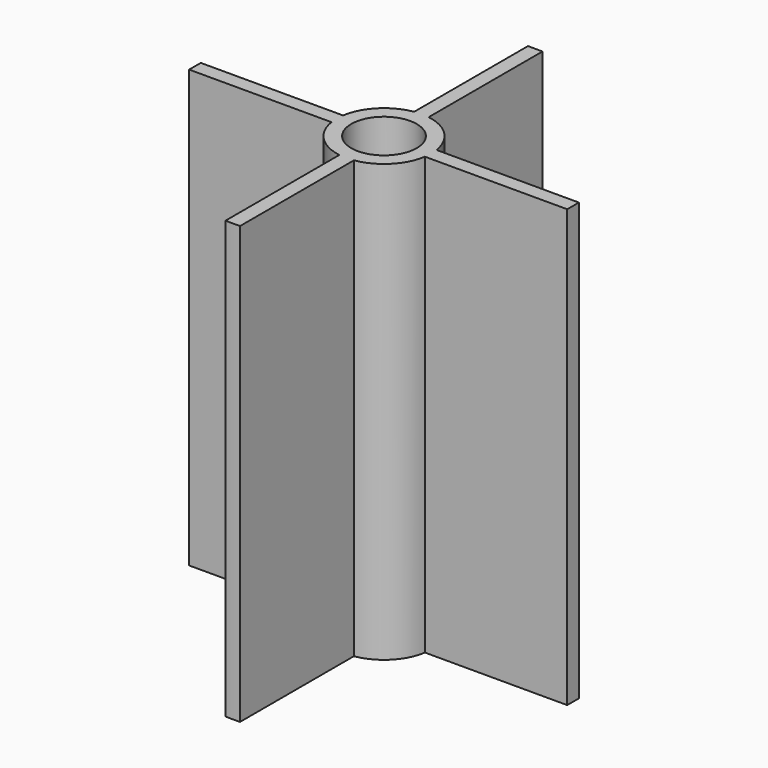
from build123d import *

# Parameters (mm, degrees)
F0_R     = 4.5
F1_DEPTH = 60


with BuildPart() as f1:
    # F0 (on Top) → F1 (new body)
    with BuildSketch(Plane.XY):
        with BuildLine():
            ThreePointArc((6.5, 0), (6.480625, 0.501495), (6.422616, 1))
            ThreePointArc((6.422616, 1), (4.596194, 4.596194), (1, 6.422616))
            ThreePointArc((1, 6.422616), (0, 6.5), (-1, 6.422616))
            ThreePointArc((-1, 6.422616), (-4.596194, 4.596194), (-6.422616, 1))
            ThreePointArc((-6.422616, 1), (-6.5, 0), (-6.422616, -1))
            ThreePointArc((-6.422616, -1), (-4.596194, -4.596194), (-1, -6.422616))
            ThreePointArc((-1, -6.422616), (0, -6.5), (1, -6.422616))
            ThreePointArc((1, -6.422616), (4.596194, -4.596194), (6.422616, -1))
            ThreePointArc((6.422616, -1), (6.480625, -0.501495), (6.5, 0))
        make_face()
        Circle(F0_R, mode=Mode.SUBTRACT)
        with BuildLine():
            Line((-6.422616, 1), (-25.980762, 1))
            Line((-25.980762, 1), (-25.980762, -1))
            Line((-25.980762, -1), (-6.422616, -1))
            ThreePointArc((-6.422616, -1), (-6.5, 0), (-6.422616, 1))
        make_face()
        with BuildLine():
            ThreePointArc((-1, -25.980762), (0, -26), (1, -25.980762))
            Line((1, -25.980762), (1, -6.422616))
            ThreePointArc((1, -6.422616), (0, -6.5), (-1, -6.422616))
            Line((-1, -6.422616), (-1, -25.980762))
        make_face()
        with BuildLine():
            Line((25.980762, -1), (25.980762, 1))
            Line((25.980762, 1), (6.422616, 1))
            ThreePointArc((6.422616, 1), (6.480625, 0.501495), (6.5, 0))
            ThreePointArc((6.5, 0), (6.480625, -0.501495), (6.422616, -1))
            Line((6.422616, -1), (25.980762, -1))
        make_face()
        with BuildLine():
            Line((1, 6.422616), (1, 25.980762))
            Line((1, 25.980762), (-1, 25.980762))
            Line((-1, 25.980762), (-1, 6.422616))
            ThreePointArc((-1, 6.422616), (0, 6.5), (1, 6.422616))
        make_face()
    extrude(amount=F1_DEPTH)


solid = f1.part
